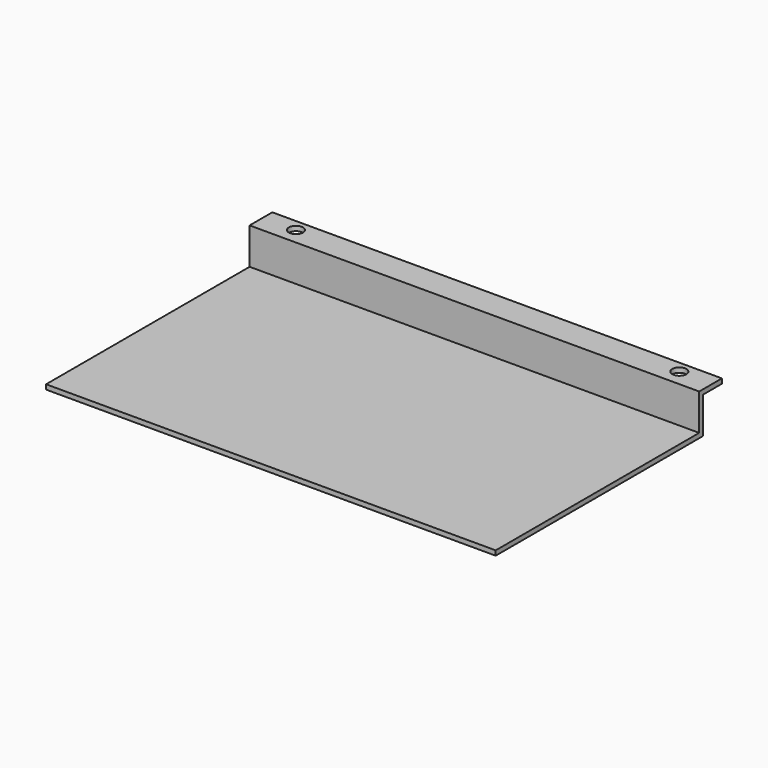
from build123d import *

# Parameters (mm, degrees)
F0_W     = 603.25
F0_H     = 347.6625
F1_DEPTH = 6.35
F2_W     = 603.25
F2_H     = 6.35
F3_DEPTH = 42.545
F4_W     = 603.25
F4_H     = 38.1
F5_DEPTH = 6.35
F6_R     = 9.525
F7_DEPTH = 55.246


with BuildPart() as f1:
    # F0 (on Top) → F1 (new body)
    with BuildSketch(Plane.XY):
        with Locations((-8.060125, 0.454914)):
            Rectangle(F0_W, F0_H)
    extrude(amount=F1_DEPTH)

    # F2 (on face) → F3 (join)
    with BuildSketch(Plane.XY.offset(6.35)):
        with Locations((-8.060125, 171.111164)):
            Rectangle(F2_W, F2_H)
    extrude(amount=F3_DEPTH)

    # F4 (on face) → F5 (join)
    with BuildSketch(Plane.XY.offset(48.895)):
        with Locations((-8.060125, 186.986164)):
            Rectangle(F4_W, F4_H)
    extrude(amount=F5_DEPTH)

    # F6 (on face) → F7 (cut, through all)
    with BuildSketch(Plane.XY.offset(55.245)):
        with Locations((-265.235125, 190.161164)):
            Circle(F6_R)
        with Locations((249.114875, 190.161164)):
            Circle(F6_R)
    extrude(amount=-F7_DEPTH, mode=Mode.SUBTRACT)


solid = f1.part
